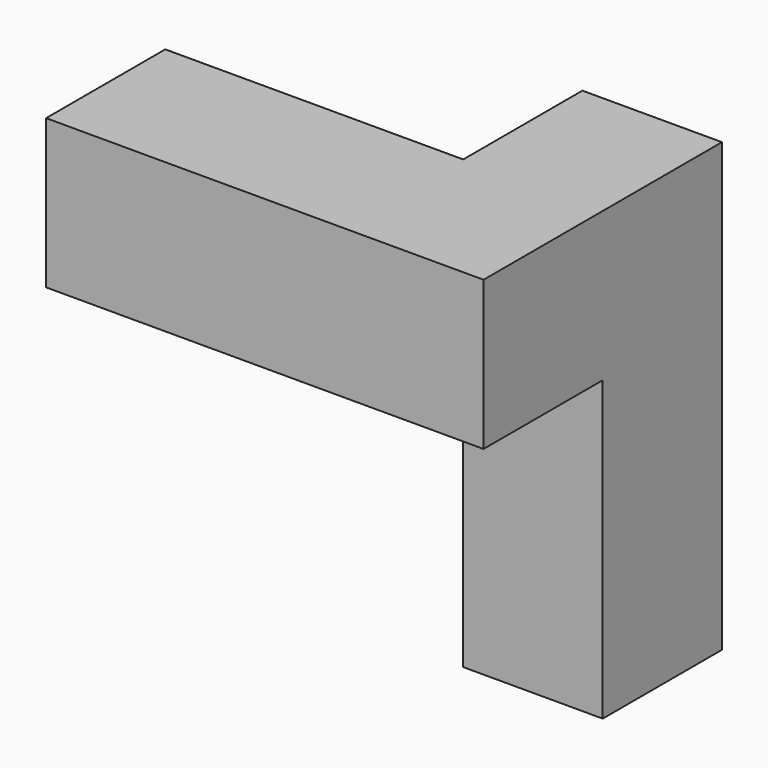
from build123d import *

# Parameters (mm, degrees)
F0_W     = 17.837725
F0_H     = 19.05
F1_DEPTH = 19.05
F2_W     = 17.837725
F2_H     = 19.05
F2_W_2   = 19.05
F3_DEPTH = 19.05


with BuildPart() as f1:
    # F0 (on Front) → F1 (new body)
    with BuildSketch(Plane.XZ):
        with Locations((42.629033, 37.424813)):
            Rectangle(F0_W, F0_H)
        with Locations((42.629033, 18.374813)):
            Rectangle(F0_W, F0_H)
        with Locations((42.629033, -0.675187)):
            Rectangle(F0_W, F0_H)
    extrude(amount=F1_DEPTH)

    # F2 (on face) → F3 (join)
    with BuildSketch(Plane.XZ.offset(19.05)):
        with Locations((42.629033, 37.424813)):
            Rectangle(F2_W, F2_H)
        with Locations((24.185171, 37.424813)):
            Rectangle(F2_W_2, F2_H)
        with Locations((5.135171, 37.424813)):
            Rectangle(F2_W_2, F2_H)
    extrude(amount=F3_DEPTH)


solid = f1.part
